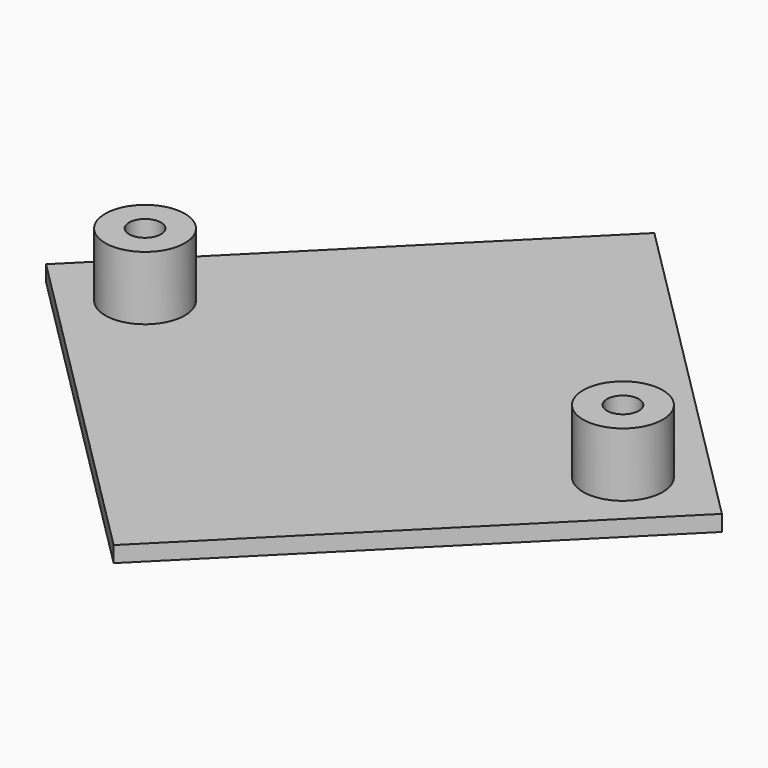
from build123d import *

# Parameters (mm, degrees)
F1_DEPTH = 1
F2_R     = 2.5
F3_DEPTH = 4
F4_R     = 1
F5_DEPTH = 25


with BuildPart() as f1:
    # F0 (on Top) → F1 (new body)
    with BuildSketch(Plane.XY):
        Polygon((21.213203, 0), (0, 21.213203), (-21.213203, 0), (0, -21.213203), align=None)
    extrude(amount=F1_DEPTH)

    # F2 (on face) → F3 (join)
    with BuildSketch(Plane.XY.offset(1)):
        with Locations((-15, 0)):
            Circle(F2_R)
        with Locations((15, 0)):
            Circle(F2_R)
    extrude(amount=F3_DEPTH)

    # F4 (on face) → F5 (cut)
    with BuildSketch(Plane.XY.offset(5)):
        with Locations((-15, 0)):
            Circle(F4_R)
        with Locations((15, 0)):
            Circle(F4_R)
    extrude(amount=-F5_DEPTH, mode=Mode.SUBTRACT)


solid = f1.part
